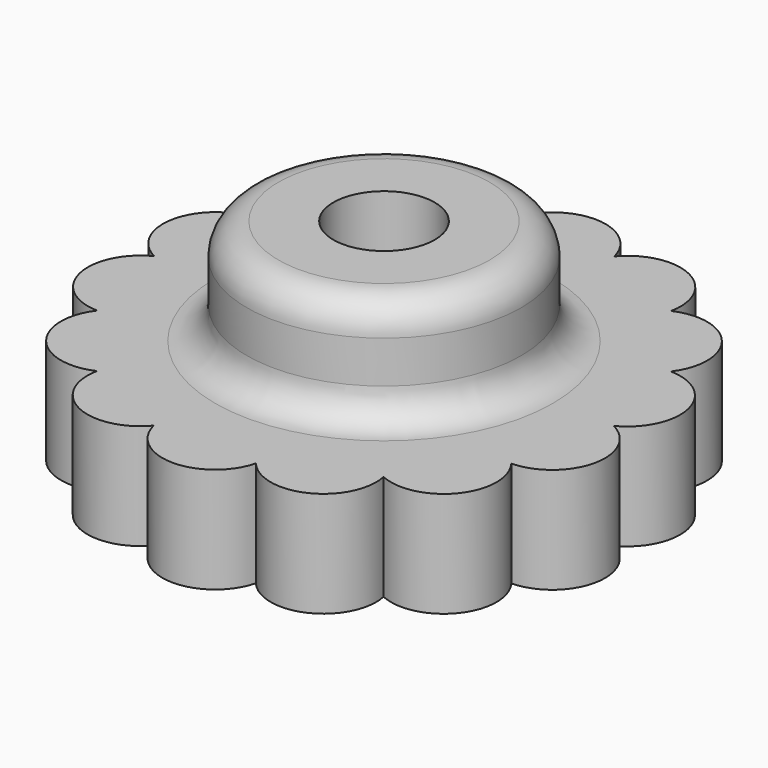
from build123d import *

# Parameters (mm, degrees)
F0_R     = 24
F1_DEPTH = 50
F2_R     = 65
F2_R_2   = 24
F3_DEPTH = 50
F4_R     = 15


with BuildPart() as f1:
    # F0 (on Top) → F1 (new body)
    with BuildSketch(Plane.XY):
        with BuildLine():
            ThreePointArc((67.890381, 85.131845), (54.235467, 112.621108), (24.229797, 106.157675))
            ThreePointArc((24.229797, 106.157675), (0, 125), (-24.229797, 106.157675))
            ThreePointArc((-24.229797, 106.157675), (-54.235467, 112.621108), (-67.890381, 85.131845))
            ThreePointArc((-67.890381, 85.131845), (-97.728935, 77.936225), (-98.104443, 47.24461))
            ThreePointArc((-98.104443, 47.24461), (-121.865989, 27.815117), (-108.887717, 0))
            ThreePointArc((-108.887717, 0), (-121.865989, -27.815117), (-98.104443, -47.24461))
            ThreePointArc((-98.104443, -47.24461), (-97.728935, -77.936225), (-67.890381, -85.131845))
            ThreePointArc((-67.890381, -85.131845), (-54.235467, -112.621108), (-24.229797, -106.157675))
            ThreePointArc((-24.229797, -106.157675), (0, -125), (24.229797, -106.157675))
            ThreePointArc((24.229797, -106.157675), (54.235467, -112.621108), (67.890381, -85.131845))
            ThreePointArc((67.890381, -85.131845), (97.728935, -77.936225), (98.104443, -47.24461))
            ThreePointArc((98.104443, -47.24461), (121.865989, -27.815117), (108.887717, 0))
            ThreePointArc((108.887717, 0), (121.865989, 27.815117), (98.104443, 47.24461))
            ThreePointArc((98.104443, 47.24461), (97.728935, 77.936225), (67.890381, 85.131845))
        make_face()
        Circle(F0_R, mode=Mode.SUBTRACT)
    extrude(amount=F1_DEPTH)

    # F2 (on face) → F3 (join)
    with BuildSketch(Plane.XY.offset(50)):
        Circle(F2_R)
        Circle(F2_R_2, mode=Mode.SUBTRACT)
    extrude(amount=F3_DEPTH)

    # F4
    f4_edges = [f1.edges().sort_by_distance(p)[0] for p in [
        (-65, 0, 50),
        (-65, 0, 100),
    ]]
    fillet(f4_edges, radius=F4_R)


solid = f1.part
